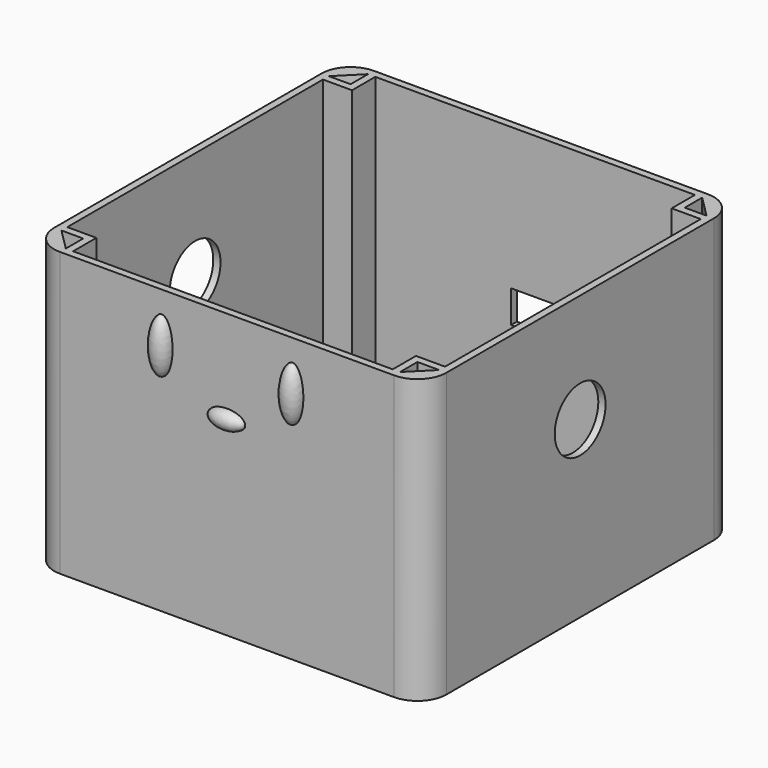
from build123d import *

# Parameters (mm, degrees)
SKETCH087_W         = 108
SKETCH087_H         = 108
PAD038_DEPTH        = 78
POCKET039_DEPTH     = 78.001
FILLET006_R         = 8
POCKET043_DEPTH     = 78.001
REVOLUTION017_ANGLE = -180
REVOLUTION018_ANGLE = -180
REVOLUTION019_ANGLE = -180
SKETCH119_W         = 13.26
SKETCH119_H         = 8.92
POCKET059_DEPTH     = 2
SKETCH156_R         = 8.75
POCKET060_DEPTH     = 2
SKETCH157_R         = 8.75
POCKET061_DEPTH     = 2


with BuildPart() as part:
    # Sketch087 → Pad038 (new body)
    with BuildSketch(Plane.XY):
        with Locations((54, 54)):
            Rectangle(SKETCH087_W, SKETCH087_H)
    extrude(amount=PAD038_DEPTH)

    # Sketch107 (on Face6 of Pad038) → Pocket039 (cut, through all)
    with BuildSketch(Plane.XY.offset(78)):
        Polygon((2, 98), (10, 98), (10, 106), (98, 106), (98, 98), (106, 98), (106, 10), (98, 10), (98, 2), (10, 2), (10, 10), (2, 10), align=None)
    extrude(amount=-POCKET039_DEPTH, mode=Mode.SUBTRACT)

    # Fillet006
    fillet006_edges = [part.edges().sort_by_distance(p)[0] for p in [
        (0, 108, 39),
        (108, 108, 39),
        (108, 0, 39),
        (0, 0, 39),
    ]]
    fillet(fillet006_edges, radius=FILLET006_R)

    # Sketch115 (on Face5 of Fillet006) → Pocket043 (cut, through all)
    with BuildSketch(Plane.XY.offset(78)):
        Polygon((2, 100), (8, 100), (8, 106), align=None)
        Polygon((100, 106), (100, 100), (106, 100), align=None)
        Polygon((100, 2), (100, 8), (106, 8), align=None)
        Polygon((2, 8), (8, 8), (8, 2), align=None)
    extrude(amount=-POCKET043_DEPTH, mode=Mode.SUBTRACT)

    # Sketch116 → Revolution017 (revolve)
    with BuildSketch(Plane.XZ):
        with BuildLine():
            add(Edge.make_bspline(
                [(36, 57), (39, 57), (39, 64.5), (39, 72), (36, 72)],
                knots=[0, 0, 0, 1.570796, 1.570796, 3.141593, 3.141593, 3.141593], degree=2, weights=[1, 0.707107, 1, 0.707107, 1]))
            Line((36, 72), (36, 57))
        make_face()
    revolve(axis=Axis((36, 0, 57), (0, 0, 1)), revolution_arc=REVOLUTION017_ANGLE)

    # Sketch117 → Revolution018 (revolve)
    with BuildSketch(Plane.XZ):
        with BuildLine():
            add(Edge.make_bspline(
                [(72, 57), (75, 57), (75, 64.5), (75, 72), (72, 72)],
                knots=[0, 0, 0, 1.570796, 1.570796, 3.141593, 3.141593, 3.141593], degree=2, weights=[1, 0.707107, 1, 0.707107, 1]))
            Line((72, 72), (72, 57))
        make_face()
    revolve(axis=Axis((72, 0, 57), (0, 0, 1)), revolution_arc=REVOLUTION018_ANGLE)

    # Sketch118 → Revolution019 (revolve)
    with BuildSketch(Plane.XZ):
        with BuildLine():
            add(Edge.make_bspline(
                [(59, 52.5), (59, 55), (54, 55), (49, 55), (49, 52.5)],
                knots=[0, 0, 0, 1.570796, 1.570796, 3.141593, 3.141593, 3.141593], degree=2, weights=[1, 0.707107, 1, 0.707107, 1]))
            Line((49, 52.5), (59, 52.5))
        make_face()
    revolve(axis=Axis((59, 0, 52.5), (-1, 0, 0)), revolution_arc=REVOLUTION019_ANGLE)

    # Sketch119 → Pocket059 (cut)
    with BuildSketch(Plane(origin=(0, 108, 0), x_dir=(-1, 0, 0), z_dir=(0, 1, 0))):
        with Locations((-54, 34.46)):
            Rectangle(SKETCH119_W, SKETCH119_H)
    extrude(amount=-POCKET059_DEPTH, mode=Mode.SUBTRACT)

    # Sketch156 (on Face6 of Pocket059) → Pocket060 (cut)
    with BuildSketch(Plane.YZ.offset(108)):
        with Locations((54, 48)):
            Circle(SKETCH156_R)
    extrude(amount=-POCKET060_DEPTH, mode=Mode.SUBTRACT)

    # Sketch157 (on Face5 of Pocket060) → Pocket061 (cut)
    with BuildSketch(Plane(origin=(0, 0, 0), x_dir=(0, -1, 0), z_dir=(-1, 0, 0))):
        with Locations((-54, 48)):
            Circle(SKETCH157_R)
    extrude(amount=-POCKET061_DEPTH, mode=Mode.SUBTRACT)


with BuildPart() as part_1:
    # Body015 placement: moved
    add(part.part.moved(Location((0, 0, 106))))


solid = part_1.part
